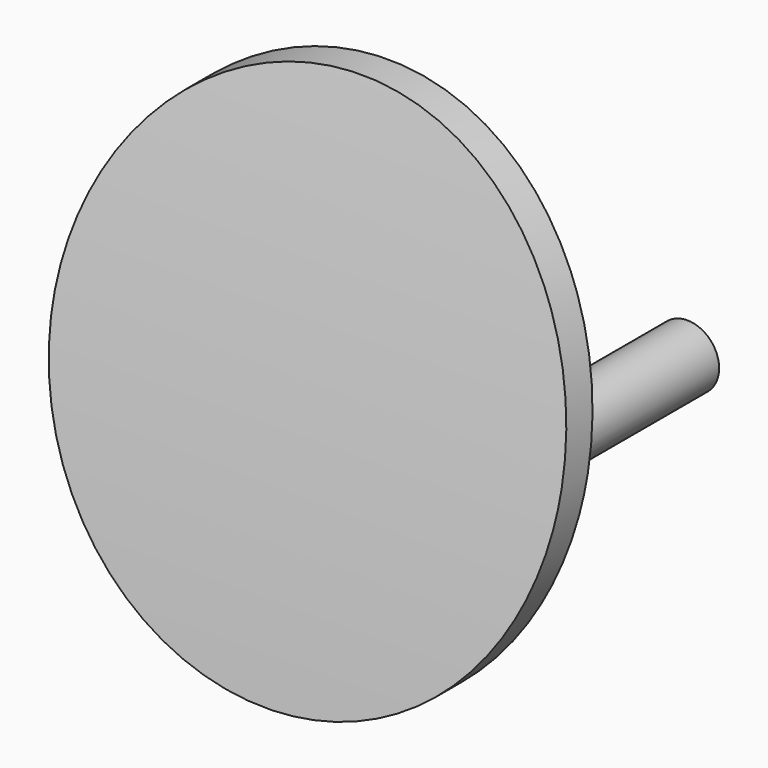
from build123d import *

# Parameters (mm, degrees)
F1_DEPTH = 50.8
F2_R     = 851.2175
F3_DEPTH = 50.8
F4_W     = 254
F4_H     = 762
F4_R     = 50.8
F5_DEPTH = 857.5685
F7_R     = 6.35


with BuildPart() as f1:
    # F0 (on Right) → F1 (new body, symmetric)
    with BuildSketch(Plane.YZ):
        with BuildLine():
            Line((-794.0675, -323.85), (-794.0675, 323.85))
            ThreePointArc((-794.0675, 323.85), (-857.5675, 0), (-794.0675, -323.85))
        make_face()
    extrude(amount=F1_DEPTH, both=True)

    # F2 (on Right) → F3 (cut, symmetric)
    with BuildSketch(Plane.YZ):
        Circle(F2_R)
    extrude(amount=F3_DEPTH, both=True, mode=Mode.SUBTRACT)

    # F4 (on Front) → F5 (cut, through all)
    with BuildSketch(Plane.XZ):
        Rectangle(F4_W, F4_H)
        with Locations((0, 196.85)):
            Circle(F4_R, mode=Mode.SUBTRACT)
    extrude(amount=F5_DEPTH, mode=Mode.SUBTRACT)

    # F7 (on offset) → F8 (join, up to the next surface of F1)
    with BuildSketch(Plane.XZ.offset(787.4)):
        with Locations((38.1, 196.85)):
            Circle(F7_R)
    extrude(until=Until.NEXT)


solid = f1.part
